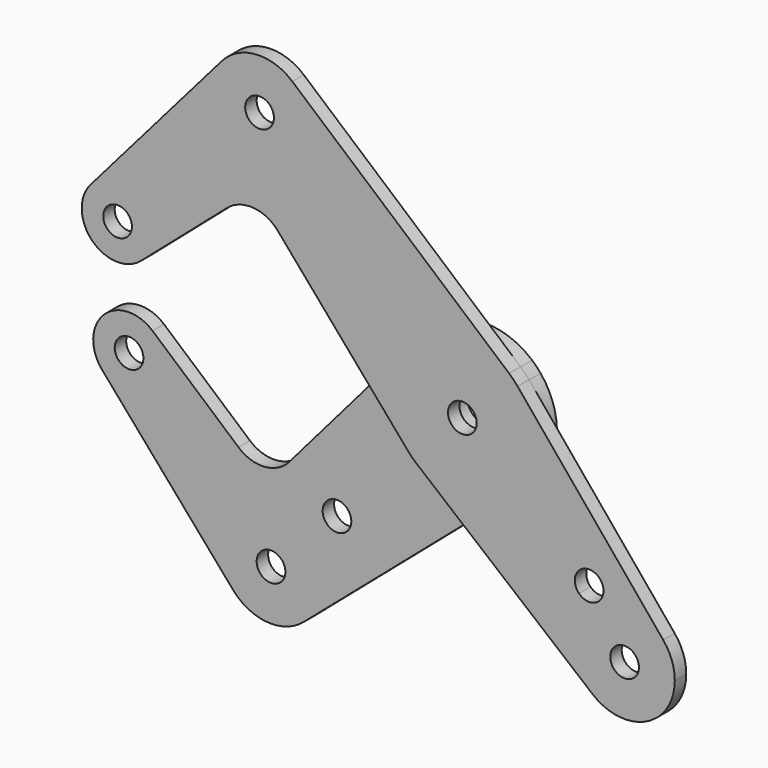
from build123d import *

# Parameters (mm, degrees)
F0_R     = 3.175
F0_R_2   = 3.9751
F1_DEPTH = 3.175
F2_DEPTH = 3.175


with BuildPart() as f1:
    # F0 (on Front) → F1 (new body)
    with BuildSketch(Plane.XZ):
        with BuildLine():
            ThreePointArc((-82.331405076, 18.6678036462), (-73.5586383483, 20.9075469092), (-68.3946770291, 13.4703841816))
            ThreePointArc((-68.3946770291, 13.4703841816), (-69.1121208226, 10.1727039932), (-71.1347575644, 7.4711561347))
            Line((-71.1347575644, 7.4711561347), (-52.0843267669, 23.9754595323))
            ThreePointArc((-52.0843267669, 23.9754595323), (-46.2965222838, 25.8954961667), (-40.8511612346, 23.1508168672))
            Line((-40.8511612346, 23.1508168672), (-20.9391765456, 0))
            Line((-20.9391765456, 0), (-12.0356034274, 10.3518054047))
            ThreePointArc((-12.0356034274, 10.3518054047), (-1.190625, 15.8302885984), (10.3518054047, 12.0356034274))
            Line((10.3518054047, 12.0356034274), (-37.655016822, 53.3262030046))
            ThreePointArc((-37.655016822, 53.3262030046), (-34.8014845049, 49.5361241819), (-33.7887806053, 44.9012806053))
            ThreePointArc((-33.7887806053, 44.9012806053), (-48.7842347585, 34.4892527868), (-53.300199871, 52.1776678558))
            Line((-53.300199871, 52.1776678558), (-82.331405076, 18.6678036462))
        make_face()
        with BuildLine():
            ThreePointArc((-71.1347575644, 7.4711561347), (-69.1121208226, 10.1727039932), (-68.3946770291, 13.4703841816))
            ThreePointArc((-68.3946770291, 13.4703841816), (-73.5586383483, 20.9075469092), (-82.331405076, 18.6678036462))
            ThreePointArc((-82.331405076, 18.6678036462), (-81.9448371048, 7.8577241059), (-71.1347575644, 7.4711561347))
        make_face()
        with Locations((-76.3321770291, 13.4703841816)):
            Circle(F0_R, mode=Mode.SUBTRACT)
        with BuildLine():
            ThreePointArc((-37.655016822, 53.3262030046), (-45.7148756595, 55.9839571475), (-53.300199871, 52.1776678558))
            ThreePointArc((-53.300199871, 52.1776678558), (-48.7842347585, 34.4892527868), (-33.7887806053, 44.9012806053))
            ThreePointArc((-33.7887806053, 44.9012806053), (-34.8014845049, 49.5361241819), (-37.655016822, 53.3262030046))
        make_face()
        with Locations((-44.9012806053, 44.9012806053)):
            Circle(F0_R, mode=Mode.SUBTRACT)
        with BuildLine():
            ThreePointArc((12.2282550252, 10.1235074968), (11.3304373246, 11.1192092809), (10.3518054047, 12.0356034274))
            ThreePointArc((10.3518054047, 12.0356034274), (-1.190625, 15.8302885984), (-12.0356034274, 10.3518054047))
            ThreePointArc((-12.0356034274, 10.3518054047), (-15.875, 0), (-12.0356034274, -10.3518054047))
            ThreePointArc((-12.0356034274, -10.3518054047), (-11.1192092809, -11.3304373246), (-10.1235074968, -12.2282550252))
            ThreePointArc((-10.1235074968, -12.2282550252), (0.1493607821, -15.87429735), (10.3518054047, -12.0356034274))
            ThreePointArc((10.3518054047, -12.0356034274), (14.4282801435, -6.6212051093), (15.875, 0))
            ThreePointArc((15.875, 0), (14.9355142785, 5.3801522504), (12.2282550252, 10.1235074968))
        make_face()
        Circle(F0_R_2, mode=Mode.SUBTRACT)
        Circle(F0_R_2)
        Circle(F0_R, mode=Mode.SUBTRACT)
        with BuildLine():
            Line((44.4808030019, -28.8345692365), (12.2282550252, 10.1235074968))
            ThreePointArc((12.2282550252, 10.1235074968), (14.9355142785, 5.3801522504), (15.875, 0))
            ThreePointArc((15.875, 0), (14.4282801435, -6.6212051093), (10.3518054047, -12.0356034274))
            Line((10.3518054047, -12.0356034274), (0.1954344954, -20.7710836138))
            Line((0.1954344954, -20.7710836138), (28.8345692365, -44.4808030019))
            ThreePointArc((28.8345692365, -44.4808030019), (28.0633003783, -28.0633003783), (44.4808030019, -28.8345692365))
        make_face()
        with BuildLine():
            ThreePointArc((25.8272166042, -25.8272166042), (26.8572607367, -20.6488350582), (31.2472806345, -23.5821525739))
            ThreePointArc((31.2472806345, -23.5821525739), (29.2873005322, -26.5154700897), (25.8272166042, -25.8272166042))
        make_face(mode=Mode.SUBTRACT)
        with BuildLine():
            ThreePointArc((47.0335244843, -35.9210244843), (46.3758844792, -32.154917909), (44.4808030019, -28.8345692365))
            ThreePointArc((44.4808030019, -28.8345692365), (28.0633003783, -28.0633003783), (28.8345692365, -44.4808030019))
            ThreePointArc((28.8345692365, -44.4808030019), (40.650687385, -45.9767663811), (47.0335244843, -35.9210244843))
        make_face()
        with Locations((35.9210244843, -35.9210244843)):
            Circle(F0_R, mode=Mode.SUBTRACT)
        with BuildLine():
            ThreePointArc((10.3518054047, -12.0356034274), (0.1493607821, -15.87429735), (-10.1235074968, -12.2282550252))
            Line((-10.1235074968, -12.2282550252), (0.1954344954, -20.7710836138))
            Line((0.1954344954, -20.7710836138), (10.3518054047, -12.0356034274))
        make_face()
        with BuildLine():
            Line((-12.0356034274, 10.3518054047), (-20.9391765456, 0))
            Line((-20.9391765456, 0), (-12.0356034274, -10.3518054047))
            ThreePointArc((-12.0356034274, -10.3518054047), (-15.875, 0), (-12.0356034274, 10.3518054047))
        make_face()
    extrude(amount=F1_DEPTH)


with BuildPart() as f2:
    # F0 (on Front) → F2 (new body)
    with BuildSketch(Plane.XZ):
        with BuildLine():
            Line((-12.0356034274, -10.3518054047), (-20.9391765456, 0))
            Line((-20.9391765456, 0), (-40.8511612346, -23.1508168672))
            ThreePointArc((-40.8511612346, -23.1508168672), (-46.2965222838, -25.8954961667), (-52.0843267669, -23.9754595323))
            Line((-52.0843267669, -23.9754595323), (-71.1347575644, -7.4711561347))
            ThreePointArc((-71.1347575644, -7.4711561347), (-69.1121208226, -10.1727039932), (-68.3946770291, -13.4703841816))
            ThreePointArc((-68.3946770291, -13.4703841816), (-73.5586383483, -20.9075469092), (-82.331405076, -18.6678036462))
            Line((-82.331405076, -18.6678036462), (-53.300199871, -52.1776678558))
            ThreePointArc((-53.300199871, -52.1776678558), (-56.0137627922, -44.9211777548), (-53.3262030046, -37.655016822))
            ThreePointArc((-53.3262030046, -37.655016822), (-41.0369756168, -34.4823169714), (-33.7887806053, -44.9012806053))
            ThreePointArc((-33.7887806053, -44.9012806053), (-34.8014845049, -49.5361241819), (-37.655016822, -53.3262030046))
            Line((-37.655016822, -53.3262030046), (0.1954344954, -20.7710836138))
            Line((0.1954344954, -20.7710836138), (-10.1235074968, -12.2282550252))
            ThreePointArc((-10.1235074968, -12.2282550252), (-11.1192092809, -11.3304373246), (-12.0356034274, -10.3518054047))
        make_face()
        with Locations((-30.2993841525, -30.2993841525)):
            Circle(F0_R, mode=Mode.SUBTRACT)
        with BuildLine():
            ThreePointArc((10.3518054047, -12.0356034274), (0.1493607821, -15.87429735), (-10.1235074968, -12.2282550252))
            Line((-10.1235074968, -12.2282550252), (0.1954344954, -20.7710836138))
            Line((0.1954344954, -20.7710836138), (10.3518054047, -12.0356034274))
        make_face()
        with BuildLine():
            Line((-12.0356034274, 10.3518054047), (-20.9391765456, 0))
            Line((-20.9391765456, 0), (-12.0356034274, -10.3518054047))
            ThreePointArc((-12.0356034274, -10.3518054047), (-15.875, 0), (-12.0356034274, 10.3518054047))
        make_face()
        with BuildLine():
            ThreePointArc((12.2282550252, 10.1235074968), (11.3304373246, 11.1192092809), (10.3518054047, 12.0356034274))
            ThreePointArc((10.3518054047, 12.0356034274), (-1.190625, 15.8302885984), (-12.0356034274, 10.3518054047))
            ThreePointArc((-12.0356034274, 10.3518054047), (-15.875, 0), (-12.0356034274, -10.3518054047))
            ThreePointArc((-12.0356034274, -10.3518054047), (-11.1192092809, -11.3304373246), (-10.1235074968, -12.2282550252))
            ThreePointArc((-10.1235074968, -12.2282550252), (0.1493607821, -15.87429735), (10.3518054047, -12.0356034274))
            ThreePointArc((10.3518054047, -12.0356034274), (14.4282801435, -6.6212051093), (15.875, 0))
            ThreePointArc((15.875, 0), (14.9355142785, 5.3801522504), (12.2282550252, 10.1235074968))
        make_face()
        Circle(F0_R_2, mode=Mode.SUBTRACT)
        with BuildLine():
            ThreePointArc((-53.300199871, -52.1776678558), (-45.7148756595, -55.9839571475), (-37.655016822, -53.3262030046))
            ThreePointArc((-37.655016822, -53.3262030046), (-34.8014845049, -49.5361241819), (-33.7887806053, -44.9012806053))
            ThreePointArc((-33.7887806053, -44.9012806053), (-41.0369756168, -34.4823169714), (-53.3262030046, -37.655016822))
            ThreePointArc((-53.3262030046, -37.655016822), (-56.0137627922, -44.9211777548), (-53.300199871, -52.1776678558))
        make_face()
        with Locations((-44.9012806053, -44.9012806053)):
            Circle(F0_R, mode=Mode.SUBTRACT)
        with BuildLine():
            ThreePointArc((-68.3946770291, -13.4703841816), (-69.1121208226, -10.1727039932), (-71.1347575644, -7.4711561347))
            ThreePointArc((-71.1347575644, -7.4711561347), (-81.9448371048, -7.8577241059), (-82.331405076, -18.6678036462))
            ThreePointArc((-82.331405076, -18.6678036462), (-73.5586383483, -20.9075469092), (-68.3946770291, -13.4703841816))
        make_face()
        with BuildLine():
            ThreePointArc((-74.0871129988, -15.7154482119), (-79.2654945448, -12.2553642838), (-73.1571770291, -13.4703841816))
            ThreePointArc((-73.1571770291, -13.4703841816), (-73.3988595134, -14.6854040794), (-74.0871129988, -15.7154482119))
        make_face(mode=Mode.SUBTRACT)
    extrude(amount=-F2_DEPTH)


solid = Compound([f1.part, f2.part])
